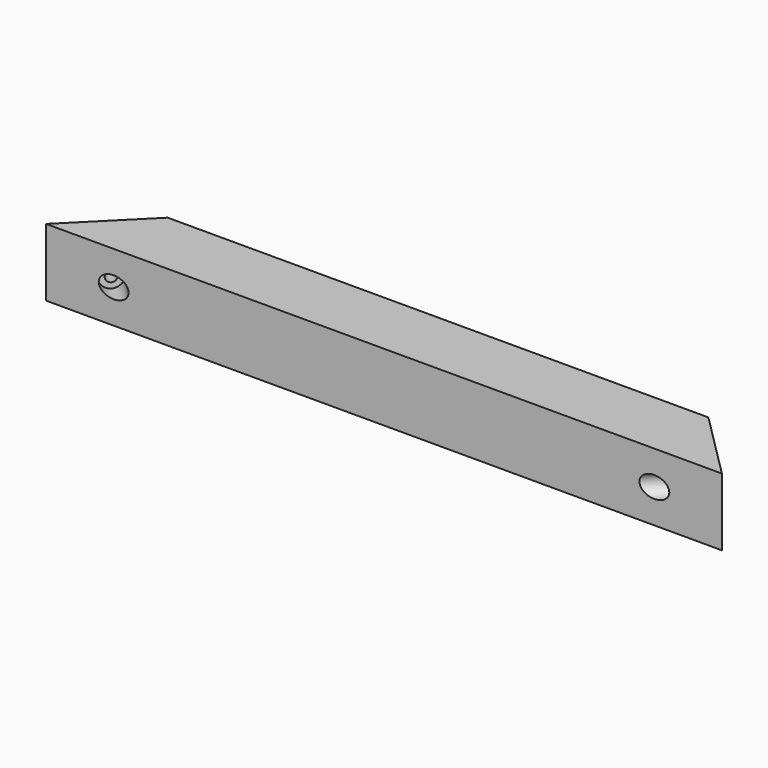
from build123d import *

# Parameters (mm, degrees)
F1_DEPTH       = 80
F5_D           = 12
F5_CBORE_D     = 25
F5_CBORE_DEPTH = 40
F9_D           = 12
F9_CBORE_D     = 25
F9_CBORE_DEPTH = 40


with BuildPart() as f1:
    # F0 (on Top) → F1 (new body)
    with BuildSketch(Plane.XY):
        Polygon((320, 40), (-320, 40), (-400, -40), (400, -40), align=None)
    extrude(amount=F1_DEPTH)

    # F5 (through all)
    with Locations(Plane(origin=(-126.966991411, 126.966991411, 0), x_dir=(-0.7071067812, -0.7071067812, 0), z_dir=(0.7071067812, -0.7071067812, 0))):
        with Locations((254.5584412272, -40)):
            CounterBoreHole(F5_D / 2, F5_CBORE_D / 2, F5_CBORE_DEPTH)

    # F9 (through all)
    with Locations(Plane(origin=(126.966991411, 126.966991411, 0), x_dir=(-0.7071067812, 0.7071067812, 0), z_dir=(-0.7071067812, -0.7071067812, 0))):
        with Locations((-254.5584412272, -40)):
            CounterBoreHole(F9_D / 2, F9_CBORE_D / 2, F9_CBORE_DEPTH)


solid = f1.part
